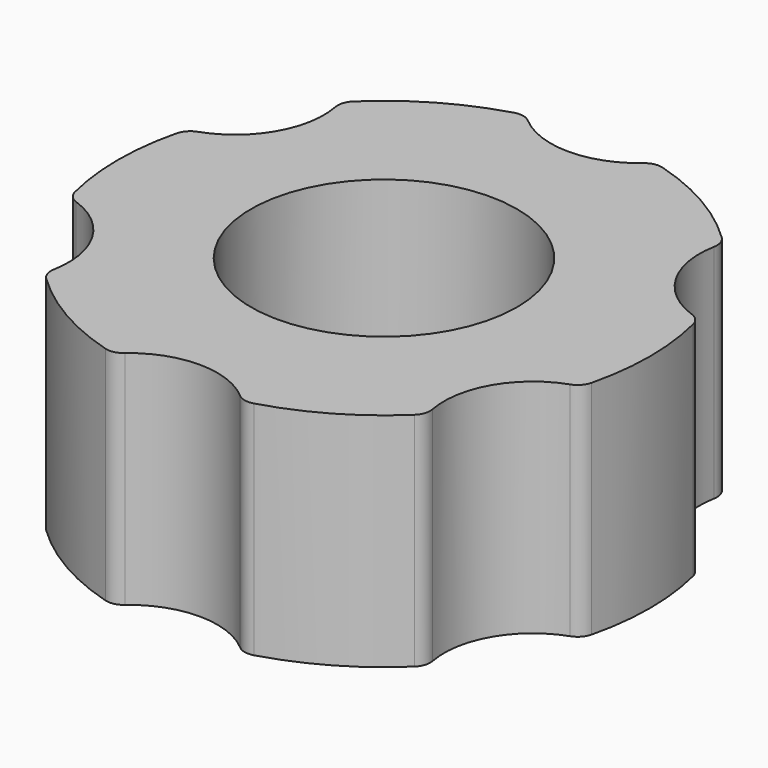
from build123d import *

# Parameters (mm, degrees)
F0_R     = 9.525
F1_DEPTH = 15.875
F2_R     = 1.27


with BuildPart() as f1:
    # F0 (on Top) → F1 (new body)
    with BuildSketch(Plane.XY):
        with BuildLine():
            ThreePointArc((4.602905, 18.485556), (0, 16.51), (-4.602905, 18.485556))
            ThreePointArc((-4.602905, 18.485556), (-9.525, 16.497784), (-13.707508, 13.229011))
            ThreePointArc((-13.707508, 13.229011), (-14.298079, 8.255), (-18.310413, 5.256545))
            ThreePointArc((-18.310413, 5.256545), (-19.05, 0), (-18.310413, -5.256545))
            ThreePointArc((-18.310413, -5.256545), (-14.298079, -8.255), (-13.707508, -13.229011))
            ThreePointArc((-13.707508, -13.229011), (-9.525, -16.497784), (-4.602905, -18.485556))
            ThreePointArc((-4.602905, -18.485556), (0, -16.51), (4.602905, -18.485556))
            ThreePointArc((4.602905, -18.485556), (9.525, -16.497784), (13.707508, -13.229011))
            ThreePointArc((13.707508, -13.229011), (14.298079, -8.255), (18.310413, -5.256545))
            ThreePointArc((18.310413, -5.256545), (19.05, 0), (18.310413, 5.256545))
            ThreePointArc((18.310413, 5.256545), (14.298079, 8.255), (13.707508, 13.229011))
            ThreePointArc((13.707508, 13.229011), (9.525, 16.497784), (4.602905, 18.485556))
        make_face()
        Circle(F0_R, mode=Mode.SUBTRACT)
    extrude(amount=F1_DEPTH)

    # F2
    f2_edges = [f1.edges().sort_by_distance(p)[0] for p in [
        (13.707508, -13.229011, 7.9375),
        (4.602905, -18.485556, 7.9375),
        (18.310413, -5.256545, 7.9375),
        (18.310413, 5.256545, 7.9375),
        (13.707508, 13.229011, 7.9375),
        (4.602905, 18.485556, 7.9375),
        (-4.602905, 18.485556, 7.9375),
        (-13.707508, 13.229011, 7.9375),
        (-18.310413, 5.256545, 7.9375),
        (-18.310413, -5.256545, 7.9375),
        (-13.707508, -13.229011, 7.9375),
        (-4.602905, -18.485556, 7.9375),
    ]]
    fillet(f2_edges, radius=F2_R)


solid = f1.part
